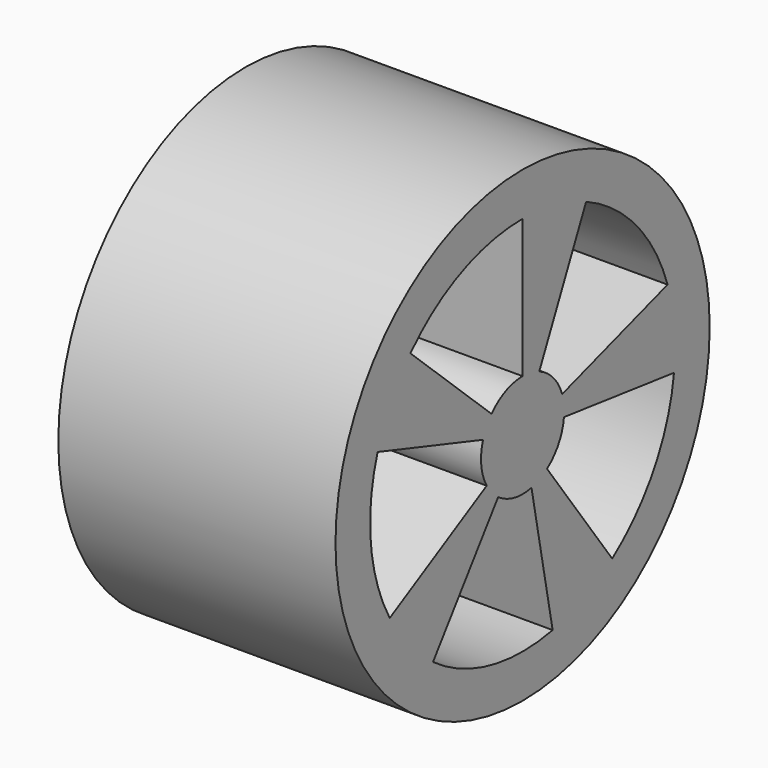
from build123d import *

# Parameters (mm, degrees)
F0_R     = 6.75
F2_DEPTH = 8
F3_DEPTH = 8.001


with BuildPart() as f2:
    # F0 (on Right) → F2 (new body)
    with BuildSketch(Plane.YZ):
        Circle(F0_R)
    extrude(amount=F2_DEPTH)

    # F1 (on face) → F3 (cut, through all)
    with BuildSketch(Plane.YZ):
        with BuildLine():
            ThreePointArc((-3.232819, -4.449593), (-1.173096, -5.373439), (1.084247, -5.392069))
            Line((1.084247, -5.392069), (0.320953, -1.465261))
            ThreePointArc((0.320953, -1.465261), (-0.30732, -1.468181), (-0.881678, -1.213525))
            Line((-0.881678, -1.213525), (-3.232819, -4.449593))
        make_face()
        with BuildLine():
            Line((-1.426585, 0.463525), (-5.230811, 1.699593))
            ThreePointArc((-5.230811, 1.699593), (-5.472951, -0.544803), (-4.793112, -2.697421))
            Line((-4.793112, -2.697421), (-1.294366, -0.758035))
            ThreePointArc((-1.294366, -0.758035), (-1.49129, -0.161414), (-1.426585, 0.463525))
        make_face()
        with BuildLine():
            Line((0, 1.5), (0, 5.5))
            ThreePointArc((0, 5.5), (-2.209373, 5.036732), (-4.046553, 3.724971))
            Line((-4.046553, 3.724971), (-1.120915, 0.996769))
            ThreePointArc((-1.120915, 0.996769), (-0.614348, 1.368421), (0, 1.5))
        make_face()
        with BuildLine():
            Line((1.426585, 0.463525), (5.230811, 1.699593))
            ThreePointArc((5.230811, 1.699593), (4.107483, 3.657675), (2.292204, 4.99958))
            Line((2.292204, 4.99958), (0.601602, 1.374072))
            ThreePointArc((0.601602, 1.374072), (1.111602, 1.007145), (1.426585, 0.463525))
        make_face()
        with BuildLine():
            ThreePointArc((3.232819, -4.449593), (4.747937, -2.776165), (5.463213, -0.635061))
            Line((5.463213, -0.635061), (1.492726, -0.147546))
            ThreePointArc((1.492726, -0.147546), (1.301356, -0.745972), (0.881678, -1.213525))
            Line((0.881678, -1.213525), (3.232819, -4.449593))
        make_face()
    extrude(amount=F3_DEPTH, mode=Mode.SUBTRACT)


solid = f2.part
